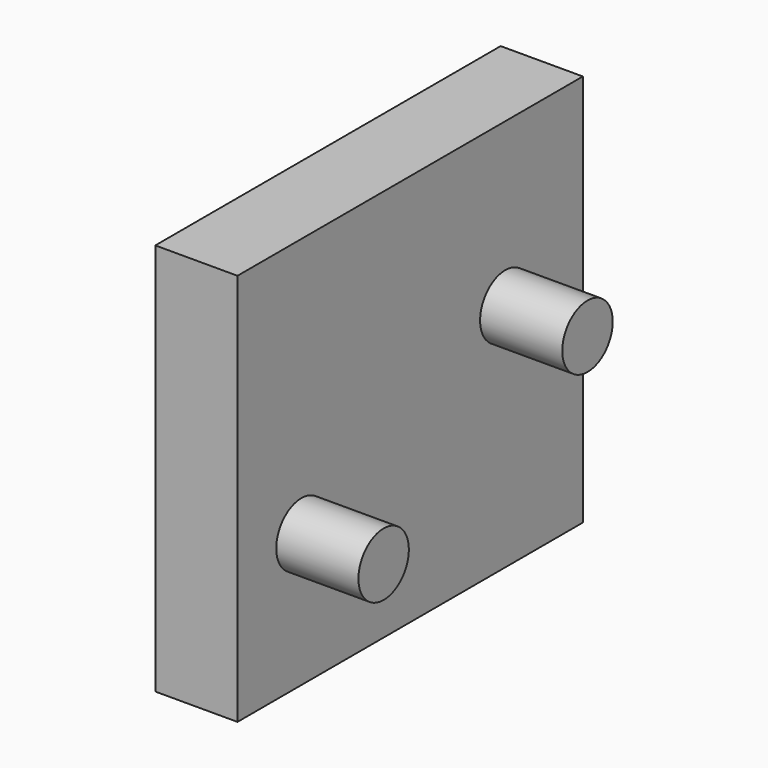
from build123d import *

# Parameters (mm, degrees)
F0_W     = 400.146693
F0_H     = 364.072472
F2_DEPTH = 76.2
F1_R     = 29.21
F3_DEPTH = 76.2


with BuildPart() as f2:
    # F0 (on Right) → F2 (new body)
    with BuildSketch(Plane.YZ):
        with Locations((-8.979843, 58.667138)):
            Rectangle(F0_W, F0_H)
    extrude(amount=-F2_DEPTH)

    # F1 (on face) → F3 (join)
    with BuildSketch(Plane.YZ):
        with Locations((-134.976578, 0)):
            Circle(F1_R)
        with Locations((101.243422, 89.998201)):
            Circle(F1_R)
    extrude(amount=F3_DEPTH)


solid = f2.part
